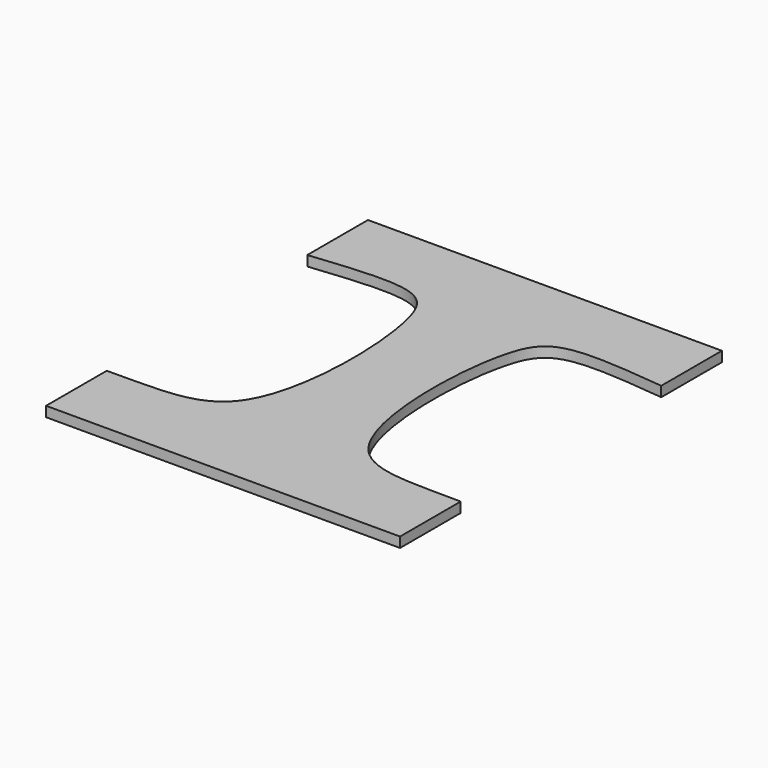
from build123d import *

# Parameters (mm, degrees)
F1_DEPTH = 5.08


with BuildPart() as f1:
    # F0 (on Top) → F1 (new body)
    with BuildSketch(Plane.XY):
        with BuildLine():
            Line((88.9, 108.5733023011), (0, 108.5733023011))
            Line((0, 108.5733023011), (-88.9, 108.5733023011))
            Line((-88.9, 108.5733023011), (-88.9, 70.4733023011))
            add(Edge.make_bspline(
                [(-88.9, 70.4733023011), (-39.7859811783, 75.7647827268), (-18.7237696616, 72.2449871634), (-16.9925534559, -59.153100334), (-60.2905284901, -55.11815589), (-88.9, -55.4308500103)],
                knots=[0, 0, 0, 0, 0.3174327164, 0.6972223968, 1, 1, 1, 1], degree=3))
            Line((-88.9, -55.4308500103), (-88.9, -93.5308500103))
            Line((-88.9, -93.5308500103), (0, -93.5308500103))
            Line((0, -93.5308500103), (88.9, -93.5308500103))
            Line((88.9, -93.5308500103), (88.9, -55.4308500103))
            add(Edge.make_bspline(
                [(88.9, 70.4733023011), (39.7859811783, 75.7647827268), (18.7237696616, 72.2449871634), (16.9925534559, -59.153100334), (60.2905284901, -55.11815589), (88.9, -55.4308500103)],
                knots=[0, 0, 0, 0, 0.3174327164, 0.6972223968, 1, 1, 1, 1], degree=3))
            Line((88.9, 70.4733023011), (88.9, 108.5733023011))
        make_face()
    extrude(amount=F1_DEPTH)


solid = f1.part
